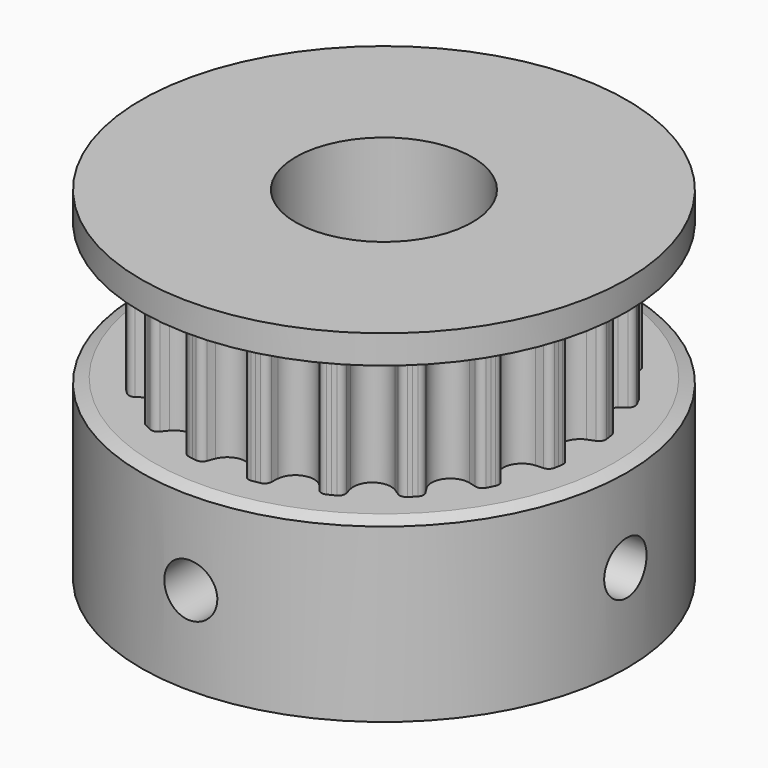
from build123d import *

# Parameters (mm, degrees)
F4_DEPTH  = 3
F5_COUNT  = 20
F9_D      = 8
F12_D     = 2.4
F12_DEPTH = 11.001
F13_D     = 2.4
F13_DEPTH = 11.0010001


with BuildPart() as f4:
    # F3 (on Top) → F4 (new body, symmetric)
    with BuildSketch(Plane.XY):
        with BuildLine():
            Line((1.2559022815, 7.9294549324), (1.4342375717, 9.0554196406))
            ThreePointArc((1.4342375717, 9.0554196406), (1.3409844716, 9.0696980615), (1.2475893883, 9.083016184))
            ThreePointArc((1.2475893883, 9.083016184), (1.0431375356, 9.0406973193), (0.9109665034, 8.8790734826))
            ThreePointArc((0.9109665034, 8.8790734826), (0.8503233705, 8.7161428912), (0.7859693016, 8.5546420521))
            ThreePointArc((0.7859693016, 8.5546420521), (0.4729659854, 8.1720365932), (0, 8.0282965855))
            ThreePointArc((0, 8.0282965855), (-0.4729659854, 8.1720365932), (-0.7859693016, 8.5546420521))
            ThreePointArc((-0.7859693016, 8.5546420521), (-0.8503233705, 8.7161428912), (-0.9109665034, 8.8790734826))
            ThreePointArc((-0.9109665034, 8.8790734826), (-1.0431375356, 9.0406973193), (-1.2475893883, 9.083016184))
            ThreePointArc((-1.2475893883, 9.083016184), (-1.3409844716, 9.0696980615), (-1.4342375717, 9.0554196406))
            Line((-1.4342375717, 9.0554196406), (-1.2559022815, 7.9294549324))
            Line((-1.2559022815, 7.9294549324), (0, 0))
            Line((0, 0), (1.2559022815, 7.9294549324))
        make_face()
        with BuildLine():
            Line((1.2559022815, 7.9294549324), (1.4342375717, 9.0554196406))
            ThreePointArc((1.4342375717, 9.0554196406), (1.3409844716, 9.0696980615), (1.2475893883, 9.083016184))
            ThreePointArc((1.2475893883, 9.083016184), (1.0431375356, 9.0406973193), (0.9109665034, 8.8790734826))
            ThreePointArc((0.9109665034, 8.8790734826), (0.8503233705, 8.7161428912), (0.7859693016, 8.5546420521))
            ThreePointArc((0.7859693016, 8.5546420521), (0.4729659854, 8.1720365932), (0, 8.0282965855))
            ThreePointArc((0, 8.0282965855), (-0.4729659854, 8.1720365932), (-0.7859693016, 8.5546420521))
            ThreePointArc((-0.7859693016, 8.5546420521), (-0.8503233705, 8.7161428912), (-0.9109665034, 8.8790734826))
            ThreePointArc((-0.9109665034, 8.8790734826), (-1.0431375356, 9.0406973193), (-1.2475893883, 9.083016184))
            ThreePointArc((-1.2475893883, 9.083016184), (-1.3409844716, 9.0696980615), (-1.4342375717, 9.0554196406))
            Line((-1.4342375717, 9.0554196406), (-1.2559022815, 7.9294549324))
            Line((-1.2559022815, 7.9294549324), (0, 0))
            Line((0, 0), (1.2559022815, 7.9294549324))
        make_face()
        with BuildLine():
            Line((1.2559022815, 7.9294549324), (1.4342375717, 9.0554196406))
            ThreePointArc((1.4342375717, 9.0554196406), (1.3409844716, 9.0696980615), (1.2475893883, 9.083016184))
            ThreePointArc((1.2475893883, 9.083016184), (1.0431375356, 9.0406973193), (0.9109665034, 8.8790734826))
            ThreePointArc((0.9109665034, 8.8790734826), (0.8503233705, 8.7161428912), (0.7859693016, 8.5546420521))
            ThreePointArc((0.7859693016, 8.5546420521), (0.4729659854, 8.1720365932), (0, 8.0282965855))
            ThreePointArc((0, 8.0282965855), (-0.4729659854, 8.1720365932), (-0.7859693016, 8.5546420521))
            ThreePointArc((-0.7859693016, 8.5546420521), (-0.8503233705, 8.7161428912), (-0.9109665034, 8.8790734826))
            ThreePointArc((-0.9109665034, 8.8790734826), (-1.0431375356, 9.0406973193), (-1.2475893883, 9.083016184))
            ThreePointArc((-1.2475893883, 9.083016184), (-1.3409844716, 9.0696980615), (-1.4342375717, 9.0554196406))
            Line((-1.4342375717, 9.0554196406), (-1.2559022815, 7.9294549324))
            Line((-1.2559022815, 7.9294549324), (0, 0))
            Line((0, 0), (1.2559022815, 7.9294549324))
        make_face()
    extrude(amount=F4_DEPTH, both=True)

    # F5: F4 ×20 about axis
    f5_axis = Axis((0, 0, 0), (0, 0, -1))


with BuildPart() as f4_1:
    add(f4.part)
    for i in range(1, F5_COUNT):
        add(f4.part.rotate(f5_axis, i * 360 / F5_COUNT))

    # F6 (on Front) → F7 (revolve)
    with BuildSketch(Plane.XZ):
        Polygon((10.4282965855, -3), (0, -3), (0, -11), (11, -11), (11, -3.2080830257), align=None)
        Polygon((0, 4.5), (0, 3), (10.4282965855, 3), (11, 3.2080830257), (11, 4.5), align=None)
    revolve(axis=Axis((0, 0, -7), (0, 0, 1)))

    # F9 (through all)
    with Locations(Plane(origin=(0, 0, -11), x_dir=(1, 0, 0), z_dir=(0, 0, -1))):
        with Locations((0, 0)):
            Hole(F9_D / 2)

    # F12 (through all, one way)
    with BuildSketch(Plane(origin=(0, 0, 0), x_dir=(1, 0, 0), z_dir=(0, 1, 0))):
        with Locations((0, 7)):
            Circle(F12_D / 2)
    extrude(amount=-F12_DEPTH, mode=Mode.SUBTRACT)

    # F13 (through all, one way)
    with BuildSketch(Plane(origin=(0, 0, 0), x_dir=(0, 1, 0), z_dir=(-1, 0, 0))):
        with Locations((0, 7)):
            Circle(F13_D / 2)
    extrude(amount=-F13_DEPTH, mode=Mode.SUBTRACT)


solid = f4_1.part
